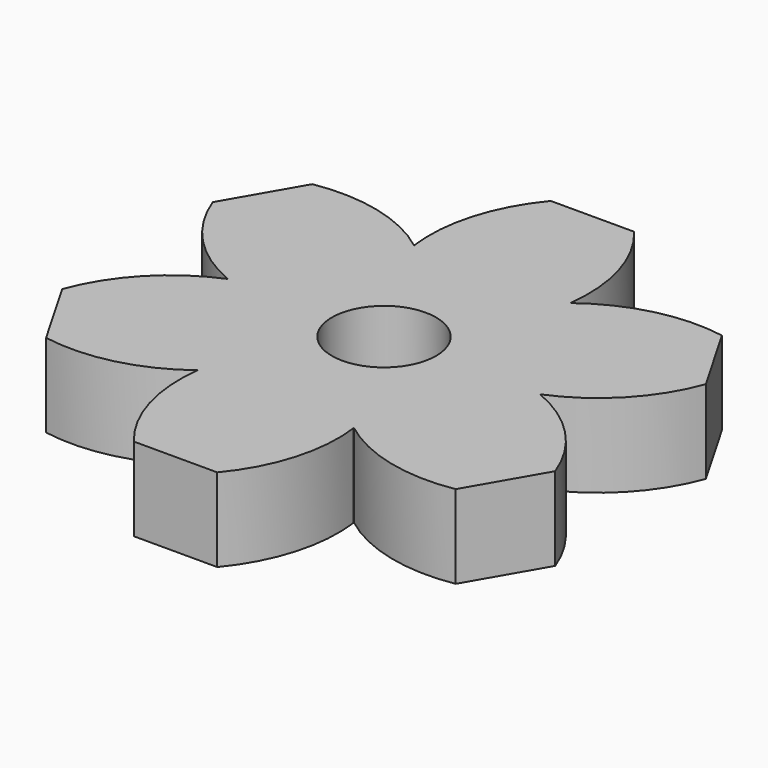
from build123d import *

# Parameters (mm, degrees)
F1_DEPTH = 4
F2_R     = 2.5
F3_DEPTH = 4.001


with BuildPart() as f1:
    # F0 (on Top) → F1 (new body)
    with BuildSketch(Plane.XY):
        with BuildLine():
            ThreePointArc((7.499998, -0.005001), (7.5, -0.002501), (7.5, 0))
            ThreePointArc((7.5, 0), (7.5, 0.002501), (7.499998, 0.005001))
            ThreePointArc((7.499998, 0.005001), (6.495191, 3.75), (3.75433, 6.492689))
            ThreePointArc((3.75433, 6.492689), (3.75, 6.495191), (3.745668, 6.49769))
            ThreePointArc((3.745668, 6.49769), (0, 7.5), (-3.745668, 6.49769))
            ThreePointArc((-3.745668, 6.49769), (-3.75, 6.495191), (-3.75433, 6.492689))
            ThreePointArc((-3.75433, 6.492689), (-6.495191, 3.75), (-7.499998, 0.005001))
            ThreePointArc((-7.499998, 0.005001), (-7.5, 0), (-7.499998, -0.005001))
            ThreePointArc((-7.499998, -0.005001), (-6.495191, -3.75), (-3.75433, -6.492689))
            ThreePointArc((-3.75433, -6.492689), (-3.75, -6.495191), (-3.745668, -6.49769))
            ThreePointArc((-3.745668, -6.49769), (0, -7.5), (3.745668, -6.49769))
            ThreePointArc((3.745668, -6.49769), (3.75, -6.495191), (3.75433, -6.492689))
            ThreePointArc((3.75433, -6.492689), (6.495191, -3.75), (7.499998, -0.005001))
        make_face()
        with BuildLine():
            ThreePointArc((3.75433, 6.492689), (6.495191, 3.75), (7.499998, 0.005001))
            ThreePointArc((7.499998, 0.005001), (10.133842, 1.809881), (11.825318, 4.517949))
            Line((11.825318, 4.517949), (10.825318, 6.25))
            Line((10.825318, 6.25), (9.825318, 7.982051))
            ThreePointArc((9.825318, 7.982051), (6.634324, 7.871225), (3.75433, 6.492689))
        make_face()
        with BuildLine():
            ThreePointArc((11.825318, -4.517949), (10.133842, -1.809881), (7.499998, -0.005001))
            ThreePointArc((7.499998, -0.005001), (6.495191, -3.75), (3.75433, -6.492689))
            ThreePointArc((3.75433, -6.492689), (6.634324, -7.871225), (9.825318, -7.982051))
            Line((9.825318, -7.982051), (10.825318, -6.25))
            Line((10.825318, -6.25), (11.825318, -4.517949))
        make_face()
        with BuildLine():
            ThreePointArc((-3.745668, 6.49769), (0, 7.5), (3.745668, 6.49769))
            ThreePointArc((3.745668, 6.49769), (3.499519, 9.681105), (2, 12.5))
            Line((2, 12.5), (0, 12.5))
            Line((0, 12.5), (-2, 12.5))
            ThreePointArc((-2, 12.5), (-3.499519, 9.681105), (-3.745668, 6.49769))
        make_face()
        with BuildLine():
            ThreePointArc((2, -12.5), (3.499519, -9.681105), (3.745668, -6.49769))
            ThreePointArc((3.745668, -6.49769), (0, -7.5), (-3.745668, -6.49769))
            ThreePointArc((-3.745668, -6.49769), (-3.499519, -9.681105), (-2, -12.5))
            Line((-2, -12.5), (0, -12.5))
            Line((0, -12.5), (2, -12.5))
        make_face()
        with BuildLine():
            ThreePointArc((-7.499998, 0.005001), (-6.495191, 3.75), (-3.75433, 6.492689))
            ThreePointArc((-3.75433, 6.492689), (-6.634324, 7.871225), (-9.825318, 7.982051))
            Line((-9.825318, 7.982051), (-10.825318, 6.25))
            Line((-10.825318, 6.25), (-11.825318, 4.517949))
            ThreePointArc((-11.825318, 4.517949), (-10.133842, 1.809881), (-7.499998, 0.005001))
        make_face()
        with BuildLine():
            ThreePointArc((-9.825318, -7.982051), (-6.634324, -7.871225), (-3.75433, -6.492689))
            ThreePointArc((-3.75433, -6.492689), (-6.495191, -3.75), (-7.499998, -0.005001))
            ThreePointArc((-7.499998, -0.005001), (-10.133842, -1.809881), (-11.825318, -4.517949))
            Line((-11.825318, -4.517949), (-10.825318, -6.25))
            Line((-10.825318, -6.25), (-9.825318, -7.982051))
        make_face()
    extrude(amount=F1_DEPTH)

    # F2 (on face) → F3 (cut, through all)
    with BuildSketch(Plane.XY.offset(4)):
        Circle(F2_R)
    extrude(amount=-F3_DEPTH, mode=Mode.SUBTRACT)


solid = f1.part
